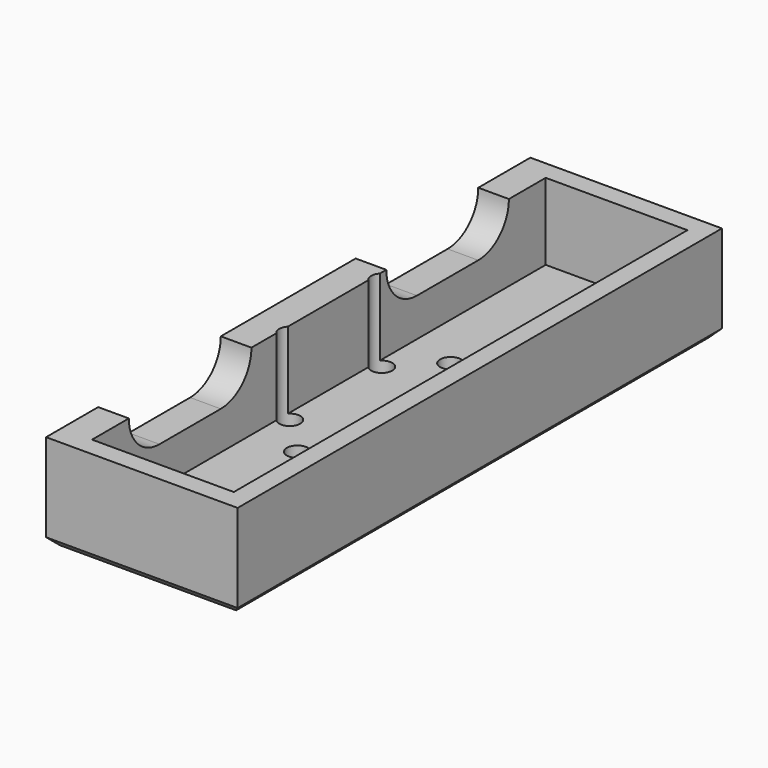
from build123d import *

# Parameters (mm, degrees)
SKETCH014_W     = 50
SKETCH014_H     = 158
PAD005_DEPTH    = 25
SKETCH015_W     = 37
SKETCH015_H     = 148
POCKET004_DEPTH = 20
POCKET005_DEPTH = 16
SKETCH017_R     = 2.75
HOLE005_DEPTH   = 25
HOLE005_TIPS_R  = 2.75
CHAMFER002_SIZE = 2


with BuildPart() as part:
    # Sketch014 → Pad005 (new body)
    with BuildSketch(Plane.XY):
        with Locations((25, 82)):
            Rectangle(SKETCH014_W, SKETCH014_H)
    extrude(amount=-PAD005_DEPTH)

    # Sketch015 → Pocket004 (cut)
    with BuildSketch(Plane.XY):
        with Locations((26.5, 82)):
            Rectangle(SKETCH015_W, SKETCH015_H)
    extrude(amount=-POCKET004_DEPTH, mode=Mode.SUBTRACT)

    # Sketch016 → Pocket005 (cut)
    with BuildSketch(Plane.YZ):
        with BuildLine():
            ThreePointArc((30.000006, 10), (20.000006, 0), (30.000006, -10))
            Line((30.000006, -10), (50, -10))
            ThreePointArc((50, -10), (60, 0), (50, 10))
            Line((30.000006, 10), (50, 10))
        make_face()
        with BuildLine():
            ThreePointArc((114.000009, 10), (104.000009, 0), (114.000009, -10))
            Line((114.000009, -10), (134, -10))
            ThreePointArc((134, -10), (144, 0), (134, 10))
            Line((114.000009, 10), (134, 10))
        make_face()
    extrude(amount=POCKET005_DEPTH, mode=Mode.SUBTRACT)

    # Sketch017 → Hole005 (cut)
    with BuildSketch(Plane.XY.offset(-25)):
        with Locations((10, 100)):
            Circle(SKETCH017_R)
        with Locations((20, 110)):
            Circle(SKETCH017_R)
        with Locations((10, 70)):
            Circle(SKETCH017_R)
        with Locations((20, 60)):
            Circle(SKETCH017_R)
    extrude(amount=HOLE005_DEPTH, mode=Mode.SUBTRACT)

    # Hole005 tips → Hole005 tip 1 section 0
    with BuildSketch(Plane.XY, mode=Mode.PRIVATE) as hole005_tip_1_s0:
        with Locations((10, 100)):
            Circle(HOLE005_TIPS_R)
    loft([hole005_tip_1_s0.sketch, Vertex(10, 100, 1.652367)], mode=Mode.SUBTRACT)

    # Hole005 tips → Hole005 tip 2 section 0
    with BuildSketch(Plane.XY, mode=Mode.PRIVATE) as hole005_tip_2_s0:
        with Locations((20, 110)):
            Circle(HOLE005_TIPS_R)
    loft([hole005_tip_2_s0.sketch, Vertex(20, 110, 1.652367)], mode=Mode.SUBTRACT)

    # Hole005 tips → Hole005 tip 3 section 0
    with BuildSketch(Plane.XY, mode=Mode.PRIVATE) as hole005_tip_3_s0:
        with Locations((10, 70)):
            Circle(HOLE005_TIPS_R)
    loft([hole005_tip_3_s0.sketch, Vertex(10, 70, 1.652367)], mode=Mode.SUBTRACT)

    # Hole005 tips → Hole005 tip 4 section 0
    with BuildSketch(Plane.XY, mode=Mode.PRIVATE) as hole005_tip_4_s0:
        with Locations((20, 60)):
            Circle(HOLE005_TIPS_R)
    loft([hole005_tip_4_s0.sketch, Vertex(20, 60, 1.652367)], mode=Mode.SUBTRACT)

    # Chamfer002
    chamfer002_edges = [part.edges().sort_by_distance(p)[0] for p in [
        (25, 3, -25),
        (0, 82, -25),
        (25, 161, -25),
        (50, 82, -25),
    ]]
    chamfer(chamfer002_edges, length=CHAMFER002_SIZE)


with BuildPart() as part_1:
    # Body003 placement: moved
    add(part.part.moved(Location((-80, -12, -126))))


solid = part_1.part
